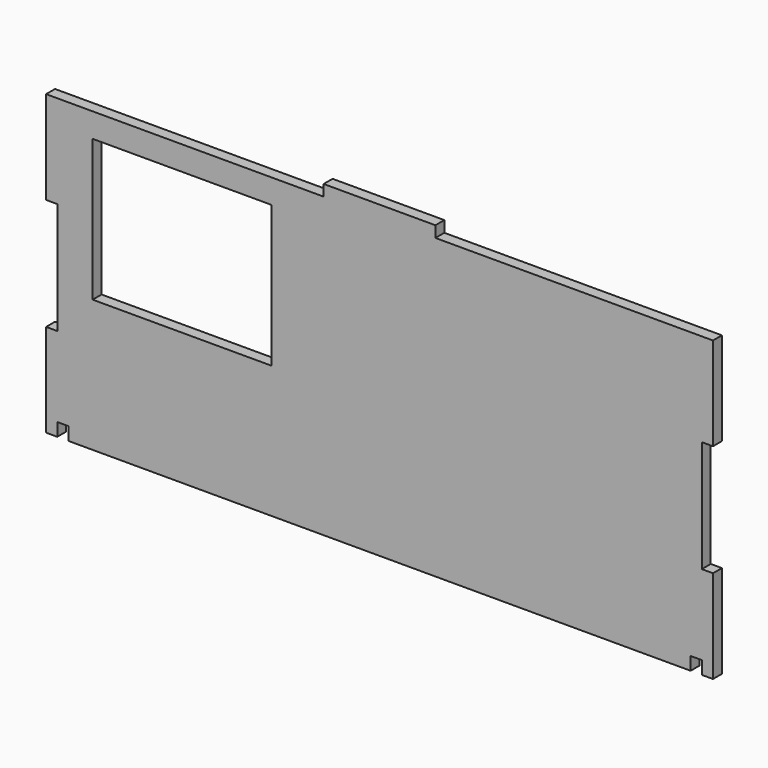
from build123d import *

# Parameters (mm, degrees)
F0_W     = 48
F0_H     = 38
F1_DEPTH = 3
F2_W     = 3
F2_H     = 30
F3_DEPTH = 25


with BuildPart() as f1:
    # F0 (on Front) → F1 (new body)
    with BuildSketch(Plane.XZ):
        Polygon((-37.5, 78.245069), (-112, 78.245069), (-112, -1.754931), (-109, -1.754931), (-109, 1.745069), (-106, 1.745069), (-106, -1.754931), (61, -1.754931), (61, 1.745069), (64, 1.745069), (64, -1.754931), (67, -1.754931), (67, 78.245069), (-7.5, 78.245069), (-7.5, 81.245069), (-37.5, 81.245069), align=None)
        with Locations((-75.5, 52.745069)):
            Rectangle(F0_W, F0_H, mode=Mode.SUBTRACT)
    extrude(amount=F1_DEPTH)

    # F2 (on face) → F3 (cut)
    with BuildSketch(Plane(origin=(0, 0, 0), x_dir=(-1, 0, 0), z_dir=(0, 1, 0))):
        with Locations((-65.5, 38.245069)):
            Rectangle(F2_W, F2_H)
        with Locations((110.5, 38.245069)):
            Rectangle(F2_W, F2_H)
    extrude(amount=-F3_DEPTH, mode=Mode.SUBTRACT)


solid = f1.part
